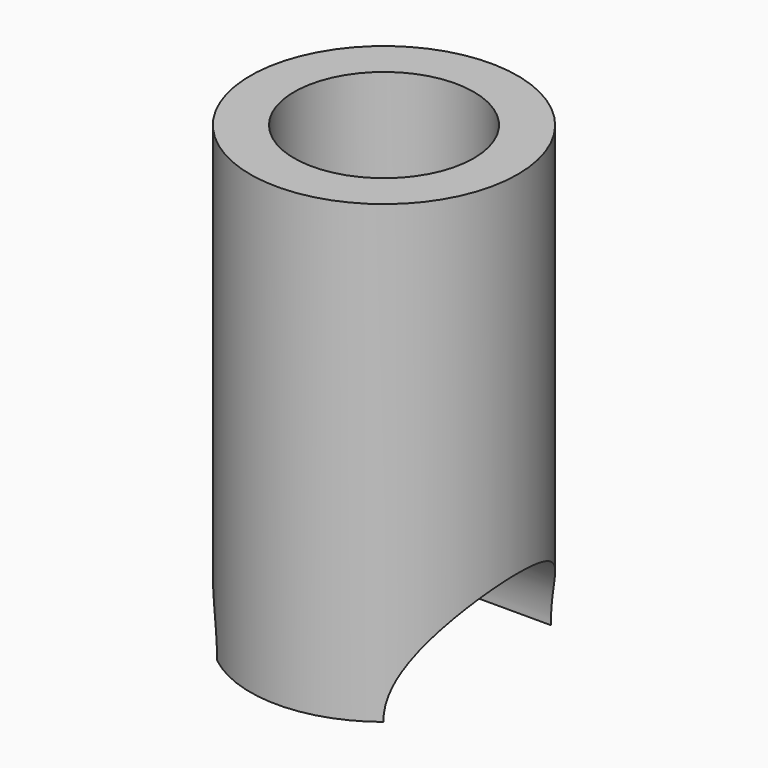
from build123d import *

# Parameters (mm, degrees)
F0_R     = 9.68375
F0_R_2   = 6.50875
F1_DEPTH = 33.02
F3_DEPTH = 25
F4_DEPTH = 54.6


with BuildPart() as f1:
    # F0 (on Top) → F1 (new body)
    with BuildSketch(Plane.XY):
        Circle(F0_R)
        Circle(F0_R_2, mode=Mode.SUBTRACT)
    extrude(amount=F1_DEPTH)

    # F2 (on Right) → F3 (cut)
    with BuildSketch(Plane.YZ):
        with BuildLine():
            ThreePointArc((7.586009, 0), (0, 7.586009), (-7.586009, 0))
            Line((-7.586009, 0), (7.586009, 0))
        make_face()
    extrude(amount=-F3_DEPTH, mode=Mode.SUBTRACT)

    # F2 (on Right) → F4 (cut)
    with BuildSketch(Plane.YZ):
        with BuildLine():
            ThreePointArc((7.586009, 0), (0, 7.586009), (-7.586009, 0))
            Line((-7.586009, 0), (7.586009, 0))
        make_face()
    extrude(amount=F4_DEPTH, mode=Mode.SUBTRACT)


solid = f1.part
